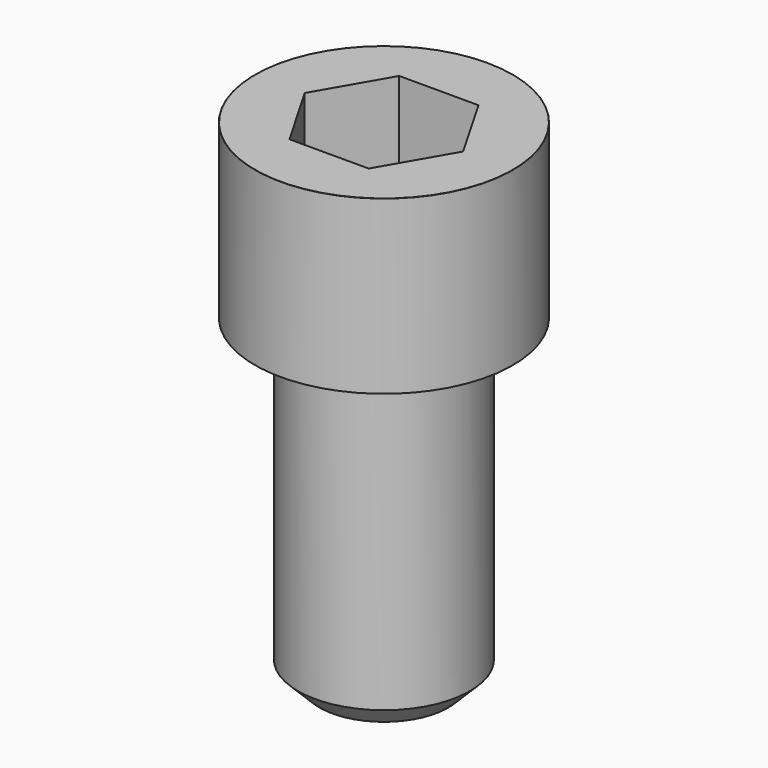
from build123d import *

# Parameters (mm, degrees)
POCKET_DEPTH = 19.15


with BuildPart() as part:
    # Sketch → Revolve (revolve)
    with BuildSketch(Plane.YZ):
        with BuildLine():
            Line((11.999, 0), (18, 0))
            Line((18, 0), (18, 23.97229))
            ThreePointArc((18, 23.97229), (17.991884, 23.991884), (17.97229, 24))
            Line((17.97229, 24), (0, 24))
            Line((0, -45), (0, 24))
            Line((9, -45), (0, -45))
            Line((12, -42), (9, -45))
            Line((12, -0.2), (12, -42))
            Line((11.999, 0), (12, -0.2))
        make_face()
    revolve(axis=Axis((0, 0, 0), (0, 0, 1)))

    # Sketch001 → Pocket (cut)
    with BuildSketch(Plane.XY.offset(24)):
        Polygon((11.056258, 0), (5.528129, 9.575), (-5.528129, 9.575), (-11.056258, 0), (-5.528129, -9.575), (5.528129, -9.575), align=None)
    extrude(amount=-POCKET_DEPTH, mode=Mode.SUBTRACT)


solid = part.part
